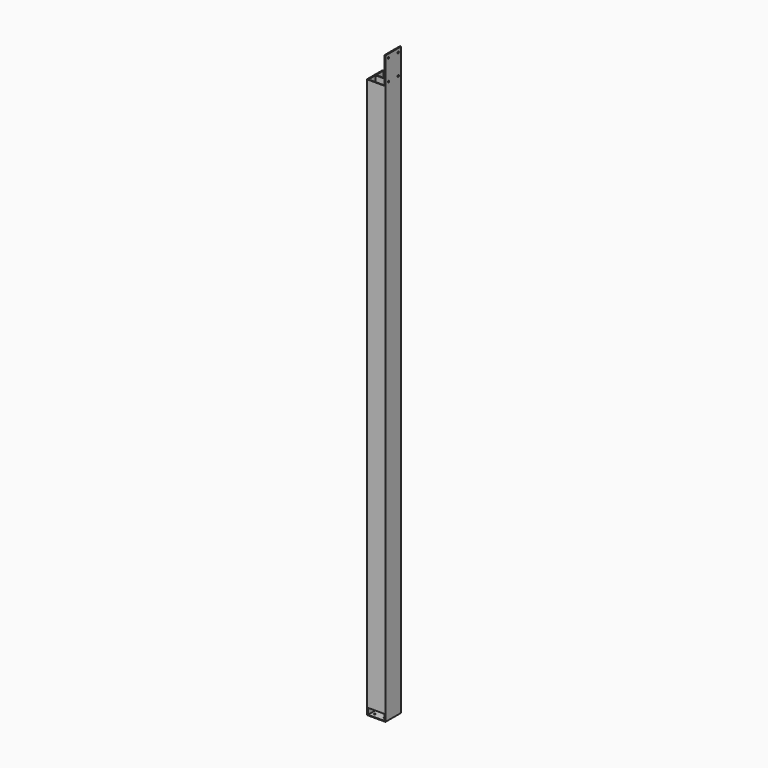
from build123d import *

# Parameters (mm, degrees)
F1_DEPTH  = 4785
F2_W      = 134
F2_H      = 220
F3_DEPTH  = 100
F4_W      = 160
F4_H      = 220
F5_DEPTH  = 25
F7_D      = 13.2
F8_W      = 134
F8_H      = 5
F9_DEPTH  = 77
F10_W     = 134
F10_H     = 5
F11_DEPTH = 77
F13_D     = 13.2
F14_W     = 134
F14_H     = 4510
F15_DEPTH = 5


with BuildPart() as f1:
    # F0 (on Top) → F1 (new body)
    with BuildSketch(Plane.XY):
        Polygon((-170.5788427117, 83), (-170.5788427117, -77), (-161.5788427117, -77), (-161.5788427117, 0), (-27.5788427117, 0), (-27.5788427117, -77), (-18.5788427117, -77), (-18.5788427117, 83), (-27.5788427117, 83), (-27.5788427117, 6), (-161.5788427117, 6), (-161.5788427117, 83), align=None)
    extrude(amount=F1_DEPTH)

    # F2 (on face) → F3 (cut)
    with BuildSketch(Plane.XZ):
        with Locations((-94.5788427117, 4675)):
            Rectangle(F2_W, F2_H)
    extrude(amount=-F3_DEPTH, mode=Mode.SUBTRACT)

    # F4 (on face) → F5 (cut)
    with BuildSketch(Plane(origin=(-170.5788427117, 0, 0), x_dir=(0, -1, 0), z_dir=(-1, 0, 0))):
        with Locations((-3, 4675)):
            Rectangle(F4_W, F4_H)
    extrude(amount=-F5_DEPTH, mode=Mode.SUBTRACT)

    # F7 (through all)
    with Locations(Plane.YZ.offset(-18.5788427117)):
        with Locations((-47, 4755), (53, 4755), (-47, 4585), (53, 4585)):
            Hole(F7_D / 2)

    # F8 (on face) → F9 (join)
    with BuildSketch(Plane(origin=(0, 6, 0), x_dir=(-1, 0, 0), z_dir=(0, 1, 0))):
        with Locations((94.5788427117, 2.5)):
            Rectangle(F8_W, F8_H)
    extrude(amount=F9_DEPTH)

    # F10 (on face) → F11 (join)
    with BuildSketch(Plane.XZ):
        with Locations((-94.5788427117, 2.5)):
            Rectangle(F10_W, F10_H)
    extrude(amount=F11_DEPTH)

    # F13 (through all)
    with Locations(Plane(origin=(0, 0, 0), x_dir=(1, 0, 0), z_dir=(0, 0, -1))):
        with Locations((-54.5788427117, -48), (-54.5788427117, 42), (-134.5788427117, 42), (-134.5788427117, -48)):
            Hole(F13_D / 2)

    # F14 (on face) → F15 (join)
    with BuildSketch(Plane.XZ.offset(77)):
        with Locations((-94.5788427117, 2310)):
            Rectangle(F14_W, F14_H)
    extrude(amount=-F15_DEPTH)


solid = f1.part
